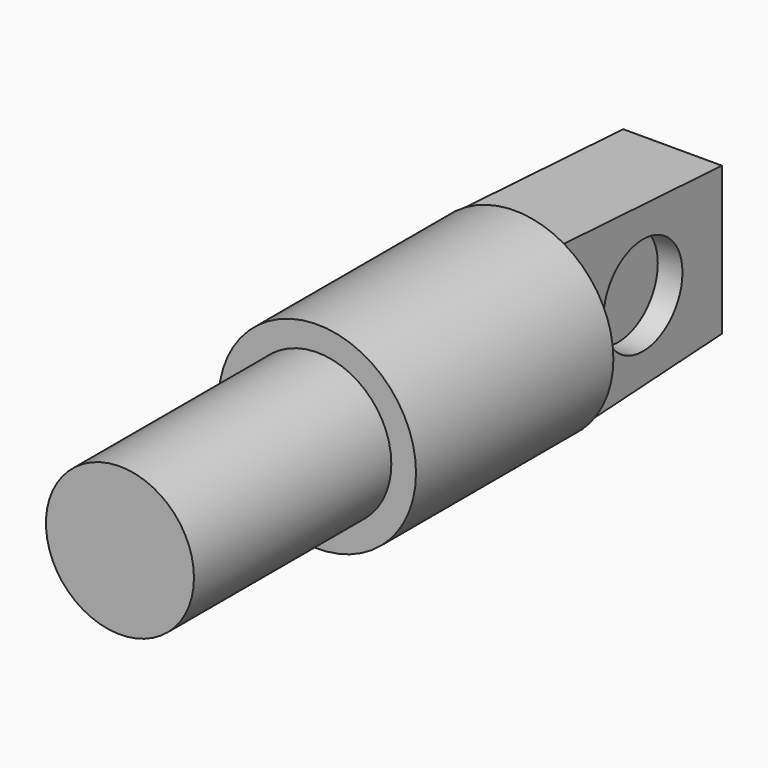
from build123d import *

# Parameters (mm, degrees)
F0_R      = 3.175
F0_R_2    = 2.38125
F1_DEPTH  = 7.9375
F2_DEPTH  = 15.875
F3_W      = 3.175
F3_H      = 5.499262
F5_W      = 3.175
F5_H      = 4.7625
F7_R      = 1.5875
F8_DEPTH  = 0.79375
F9_R      = 1.5875
F10_DEPTH = 0.79375


with BuildPart() as f1:
    # F0 (on Front) → F1 (new body)
    with BuildSketch(Plane.XZ):
        Circle(F0_R)
        Circle(F0_R_2, mode=Mode.SUBTRACT)
    extrude(amount=F1_DEPTH)

    # F0 (on Front) → F2 (join)
    with BuildSketch(Plane.XZ):
        Circle(F0_R_2)
    extrude(amount=F2_DEPTH)

    # F3 (on face) → F6 section 0
    with BuildSketch(Plane(origin=(0, 0, 0), x_dir=(-1, 0, 0), z_dir=(0, 1, 0))):
        Rectangle(F3_W, F3_H)
    # F5 (on offset) → F6 section 1
    with BuildSketch(Plane(origin=(0, 6.35, 0), x_dir=(-1, 0, 0), z_dir=(0, 1, 0))):
        Rectangle(F5_W, F5_H)
    loft()

    # F7 (on face) → F8 (cut)
    with BuildSketch(Plane.YZ.offset(1.5875)):
        with Locations((3.175, 0)):
            Circle(F7_R)
    extrude(amount=-F8_DEPTH, mode=Mode.SUBTRACT)

    # F9 (on face) → F10 (cut)
    with BuildSketch(Plane(origin=(-1.5875, 0, 0), x_dir=(0, -1, 0), z_dir=(-1, 0, 0))):
        with Locations((-3.175, 0)):
            Circle(F9_R)
    extrude(amount=-F10_DEPTH, mode=Mode.SUBTRACT)


solid = f1.part
